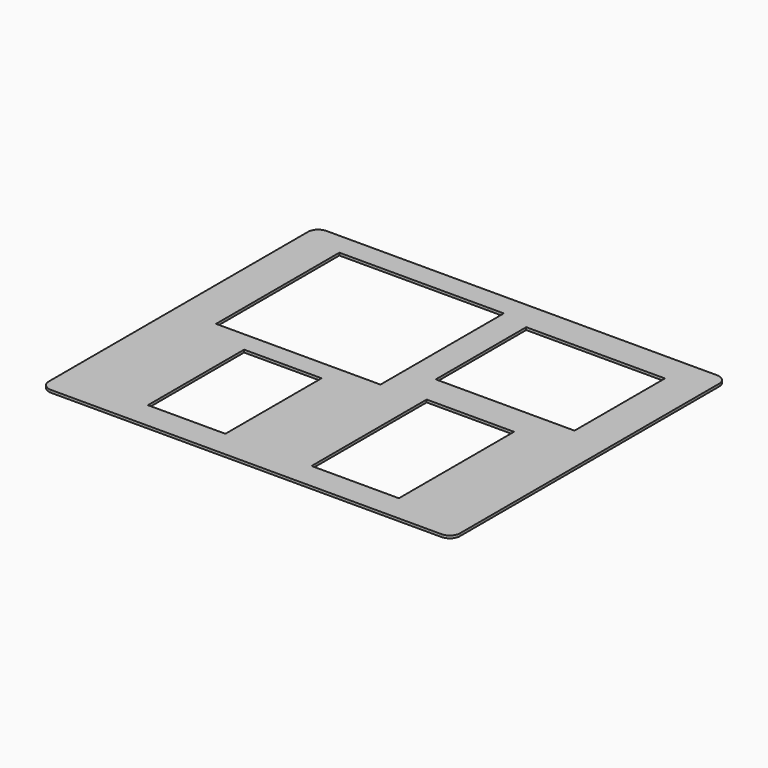
from build123d import *

# Parameters (mm, degrees)
F1_DEPTH = 3.175
F2_W     = 203.2
F2_H     = 190.5
F2_W_2   = 95.758
F2_H_2   = 148.59
F2_W_3   = 107.95
F2_H_3   = 177.8
F2_W_4   = 171.45
F2_H_4   = 139.7
F3_DEPTH = 25.4


with BuildPart() as f1:
    # F0 (on Top) → F1 (new body)
    with BuildSketch(Plane.XY):
        with BuildLine():
            ThreePointArc((254, 200.025), (250.280256, 209.005256), (241.3, 212.725))
            Line((241.3, 212.725), (-241.3, 212.725))
            ThreePointArc((-241.3, 212.725), (-250.280256, 209.005256), (-254, 200.025))
            Line((-254, 200.025), (-254, -200.025))
            ThreePointArc((-254, -200.025), (-250.280256, -209.005256), (-241.3, -212.725))
            Line((-241.3, -212.725), (241.3, -212.725))
            ThreePointArc((241.3, -212.725), (250.280256, -209.005256), (254, -200.025))
            Line((254, -200.025), (254, 200.025))
        make_face()
    extrude(amount=F1_DEPTH)

    # F2 (on face) → F3 (cut)
    with BuildSketch(Plane.XY.offset(3.175)):
        with Locations((-101.6, 89.805652)):
            Rectangle(F2_W, F2_H)
        with Locations((-100.496427, -104.9058)):
            Rectangle(F2_W_2, F2_H_2)
        with Locations((108.287733, -90.892025)):
            Rectangle(F2_W_3, F2_H_3)
        with Locations((120.595766, 106.222185)):
            Rectangle(F2_W_4, F2_H_4)
    extrude(amount=-F3_DEPTH, mode=Mode.SUBTRACT)


solid = f1.part
